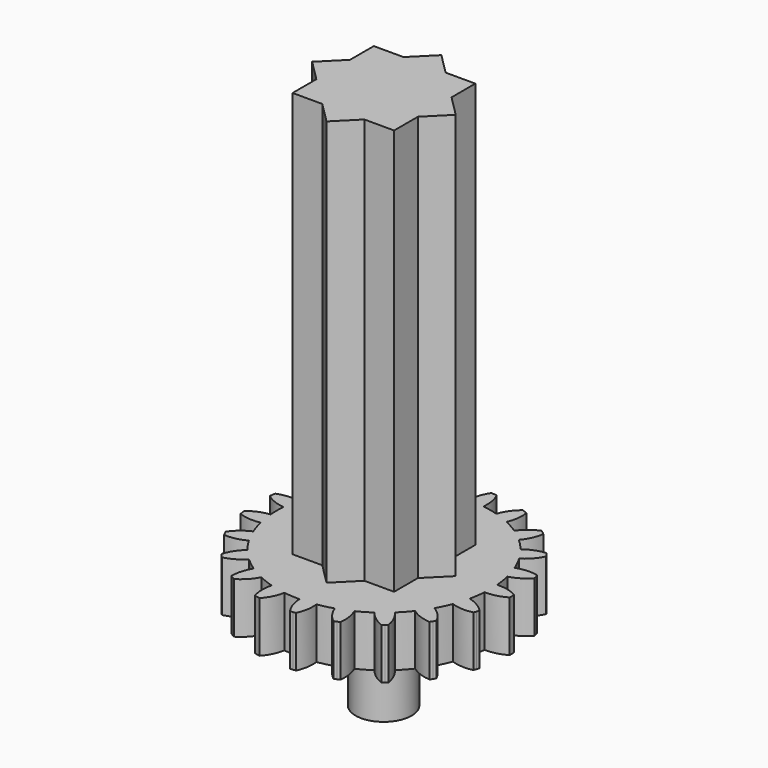
from build123d import *

# Parameters (mm, degrees)
F1_DEPTH = 2.5
F3_DEPTH = 20
F4_R     = 1.375
F5_DEPTH = 4.25


with BuildPart() as f1:
    # F0 (on Top) → F1 (new body)
    with BuildSketch(Plane.XY):
        with BuildLine():
            ThreePointArc((62.8365565144, 3.362066225), (62.8481611829, 3.2932454376), (62.8611358083, 3.2246697262))
            ThreePointArc((62.8611358083, 3.2246697262), (63.3821632788, 3.1048254944), (63.9158244158, 3.1370443667))
            ThreePointArc((63.9158244158, 3.1370443667), (63.8402378714, 3.521033735), (63.7934657065, 3.9095868526))
            ThreePointArc((63.7934657065, 3.9095868526), (63.2759676256, 3.7753184605), (62.817474959, 3.50033348))
            ThreePointArc((62.817474959, 3.50033348), (62.8263264172, 3.431104723), (62.8365565144, 3.362066225))
        make_face()
        with BuildLine():
            ThreePointArc((63.7934657065, 3.9095868526), (63.8402378714, 3.521033735), (63.9158244158, 3.1370443667))
            ThreePointArc((63.9158244158, 3.1370443667), (64.0205596733, 2.7573683946), (64.1534635918, 2.3866125903))
            ThreePointArc((64.1534635918, 2.3866125903), (64.3126858426, 2.0291081351), (64.4980971421, 1.6844578621))
            ThreePointArc((64.4980971421, 1.6844578621), (64.7100907634, 1.3525210873), (64.9463723255, 1.0374110408))
            ThreePointArc((64.9463723255, 1.0374110408), (65.2038970665, 0.7427210878), (65.4826585135, 0.4680335994))
            ThreePointArc((65.4826585135, 0.4680335994), (65.7830739349, 0.2133300609), (66.1017384869, -0.0181353173))
            ThreePointArc((66.1017384869, -0.0181353173), (66.4346835147, -0.2238262726), (66.7820259313, -0.4041437877))
            ThreePointArc((66.7820259313, -0.4041437877), (67.1441699244, -0.5589825627), (67.5169027223, -0.686236558))
            ThreePointArc((67.5169027223, -0.686236558), (67.8956844101, -0.7846519716), (68.2807448984, -0.8545775108))
            ThreePointArc((68.2807448984, -0.8545775108), (68.67243938, -0.8957934176), (69.0661214791, -0.907528954))
            ThreePointArc((69.0661214791, -0.907528954), (69.4570834117, -0.8899241845), (69.8456476574, -0.8432445568))
            ThreePointArc((69.8456476574, -0.8432445568), (70.232088854, -0.7671753812), (70.6117398722, -0.662349705))
            ThreePointArc((70.6117398722, -0.662349705), (70.9801433661, -0.5302890133), (71.3376857308, -0.3711519085))
            ThreePointArc((71.3376857308, -0.3711519085), (71.6845366462, -0.1845567307), (72.0164229243, 0.027515937))
            ThreePointArc((72.0164229243, 0.027515937), (72.3295337125, 0.2622983788), (72.624284988, 0.5197529305))
            ThreePointArc((72.624284988, 0.5197529305), (72.9007263963, 0.8002943103), (73.1553583821, 1.1007703821))
            ThreePointArc((73.1553583821, 1.1007703821), (73.3853551969, 1.4174131237), (73.591125439, 1.7503091558))
            ThreePointArc((73.591125439, 1.7503091558), (73.7725943078, 2.0998694047), (73.927346832, 2.4620502631))
            ThreePointArc((73.927346832, 2.4620502631), (74.0537934471, 2.8324182074), (74.1522990667, 3.2111764463))
            ThreePointArc((74.1522990667, 3.2111764463), (74.2226710907, 3.5986956022), (74.2637937123, 3.9903998886))
            ThreePointArc((74.2637937123, 3.9903998886), (74.2726488423, 4.1662582611), (74.2756016595, 4.3423146764))
            ThreePointArc((74.2756016595, 4.3423146764), (74.2711851699, 4.5576136217), (74.2579431316, 4.7725503326))
            ThreePointArc((74.2579431316, 4.7725503326), (74.2109654476, 5.1635956179), (74.1348042413, 5.5500186873))
            ThreePointArc((74.1348042413, 5.5500186873), (74.0306436457, 5.9272609583), (73.8986706949, 6.2956958927))
            ThreePointArc((73.8986706949, 6.2956958927), (73.7385174764, 6.6555212177), (73.5518396996, 7.0023276848))
            ThreePointArc((73.5518396996, 7.0023276848), (73.3411125556, 7.3321082656), (73.1064046894, 7.6452749595))
            ThreePointArc((73.1064046894, 7.6452749595), (72.8473062526, 7.9419082651), (72.5666990449, 8.2182828532))
            ThreePointArc((72.5666990449, 8.2182828532), (72.2681293841, 8.471299292), (71.9515414263, 8.7013715103))
            ThreePointArc((71.9515414263, 8.7013715103), (71.6165198043, 8.9084556255), (71.2669163477, 9.0898412397))
            ThreePointArc((71.2669163477, 9.0898412397), (70.9070333946, 9.2436119155), (70.5366955747, 9.370146732))
            ThreePointArc((70.5366955747, 9.370146732), (70.1555189089, 9.4692813244), (69.7679830045, 9.5395610568))
            ThreePointArc((69.7679830045, 9.5395610568), (69.378763939, 9.5804227704), (68.9875823974, 9.5921770113))
            ThreePointArc((68.9875823974, 9.5921770113), (68.5941199073, 9.5745535373), (68.203085821, 9.5274827253))
            ThreePointArc((68.203085821, 9.5274827253), (67.819114465, 9.4518047341), (67.4418473984, 9.3477339836))
            ThreePointArc((67.4418473984, 9.3477339836), (67.0710599529, 9.2149183661), (66.7112727793, 9.054679458))
            ThreePointArc((66.7112727793, 9.054679458), (66.3666666728, 8.8691860835), (66.0368359156, 8.6585374844))
            ThreePointArc((66.0368359156, 8.6585374844), (65.7216696065, 8.4223309741), (65.4250980149, 8.1631618999))
            ThreePointArc((65.4250980149, 8.1631618999), (65.1504769227, 7.8843350426), (64.8973893852, 7.5858256474))
            ThreePointArc((64.8973893852, 7.5858256474), (64.6658481221, 7.2672162291), (64.4588437998, 6.9321452985))
            ThreePointArc((64.4588437998, 6.9321452985), (64.2786090112, 6.5847599482), (64.1247526318, 6.2249136266))
            ThreePointArc((64.1247526318, 6.2249136266), (63.9974098719, 5.8522111454), (63.8983660615, 5.471010881))
            ThreePointArc((63.8983660615, 5.471010881), (63.8285322283, 5.0859337506), (63.7875778214, 4.6967244275))
            ThreePointArc((63.7875778214, 4.6967244275), (63.7757485279, 4.3030451344), (63.7934657065, 3.9095868526))
        make_face()
        with BuildLine():
            ThreePointArc((64.4980971421, 1.6844578621), (64.3126858426, 2.0291081351), (64.1534635918, 2.3866125903))
            ThreePointArc((64.1534635918, 2.3866125903), (63.698532802, 2.105774129), (63.341462924, 1.7078628737))
            ThreePointArc((63.341462924, 1.7078628737), (63.3703266711, 1.6443187693), (63.4004517284, 1.5813628321))
            ThreePointArc((63.4004517284, 1.5813628321), (63.4318261172, 1.5190200954), (63.4644373622, 1.4573153484))
            ThreePointArc((63.4644373622, 1.4573153484), (63.9976417514, 1.4963710024), (64.4980971421, 1.6844578621))
        make_face()
        with BuildLine():
            ThreePointArc((62.8055740977, 5.0913317626), (63.2681290721, 4.8232363308), (63.7875778214, 4.6967244275))
            ThreePointArc((63.7875778214, 4.6967244275), (63.8285322283, 5.0859337506), (63.8983660615, 5.471010881))
            ThreePointArc((63.8983660615, 5.471010881), (63.364282665, 5.495242894), (62.8451062952, 5.3676178105))
            ThreePointArc((62.8451062952, 5.3676178105), (62.8331589736, 5.2988556799), (62.8225851218, 5.2298689945))
            ThreePointArc((62.8225851218, 5.2298689945), (62.8133889443, 5.1606851855), (62.8055740977, 5.0913317626))
        make_face()
        with BuildLine():
            ThreePointArc((65.4826585135, 0.4680335994), (65.2038970665, 0.7427210878), (64.9463723255, 1.0374110408))
            ThreePointArc((64.9463723255, 1.0374110408), (64.5944314239, 0.6349562401), (64.3705115601, 0.1494748713))
            ThreePointArc((64.3705115601, 0.1494748713), (64.4168229255, 0.0972615919), (64.4641661992, 0.0459821269))
            ThreePointArc((64.4641661992, 0.0459821269), (64.5125225562, -0.0043431335), (64.5618727686, -0.0536941786))
            ThreePointArc((64.5618727686, -0.0536941786), (65.0598765268, 0.1407910951), (65.4826585135, 0.4680335994))
        make_face()
        with BuildLine():
            ThreePointArc((63.3026891321, 6.8914403438), (63.665671571, 6.4989151677), (64.1247526318, 6.2249136266))
            ThreePointArc((64.1247526318, 6.2249136266), (64.2786090112, 6.5847599482), (64.4588437998, 6.9321452985))
            ThreePointArc((64.4588437998, 6.9321452985), (63.9556307413, 7.1127245957), (63.4219017672, 7.1437994581))
            ThreePointArc((63.4219017672, 7.1437994581), (63.3902172378, 7.0816137708), (63.3597789701, 7.0188086679))
            ThreePointArc((63.3597789701, 7.0188086679), (63.3305990672, 6.9554091223), (63.3026891321, 6.8914403438))
        make_face()
        with BuildLine():
            ThreePointArc((66.7820259313, -0.4041437877), (66.4346835147, -0.2238262726), (66.1017384869, -0.0181353173))
            ThreePointArc((66.1017384869, -0.0181353173), (65.884058967, -0.5064465823), (65.8131853801, -1.0363609145))
            ThreePointArc((65.8131853801, -1.0363609145), (65.8728293957, -1.0726039898), (65.9331842283, -1.1076505772))
            ThreePointArc((65.9331842283, -1.1076505772), (65.994225879, -1.1414867411), (66.0559300757, -1.1740990272))
            ThreePointArc((66.0559300757, -1.1740990272), (66.4744833834, -0.8414650039), (66.7820259313, -0.4041437877))
        make_face()
        with BuildLine():
            ThreePointArc((64.3083100591, 8.4650479229), (64.53946738, 7.9829705869), (64.8973893852, 7.5858256474))
            ThreePointArc((64.8973893852, 7.5858256474), (65.1504769227, 7.8843350426), (65.4250980149, 8.1631618999))
            ThreePointArc((65.4250980149, 8.1631618999), (64.9974679829, 8.4840432185), (64.4966105661, 8.6710568887))
            ThreePointArc((64.4966105661, 8.6710568887), (64.4480041383, 8.6209731161), (64.4004060283, 8.5699301045))
            ThreePointArc((64.4004060283, 8.5699301045), (64.3538351626, 8.5179481502), (64.3083100591, 8.4650479229))
        make_face()
        with BuildLine():
            ThreePointArc((68.2807448984, -0.8545775108), (67.8956844101, -0.7846519716), (67.5169027223, -0.686236558))
            ThreePointArc((67.5169027223, -0.686236558), (67.4528263648, -1.2170156884), (67.541296484, -1.7442777702))
            ThreePointArc((67.541296484, -1.7442777702), (67.6089735173, -1.7613302851), (67.676977117, -1.7770299517))
            ThreePointArc((67.676977117, -1.7770299517), (67.7452802427, -1.7913705274), (67.8138557352, -1.8043463098))
            ThreePointArc((67.8138557352, -1.8043463098), (68.1157682943, -1.3631195297), (68.2807448984, -0.8545775108))
        make_face()
        with BuildLine():
            ThreePointArc((65.7330830463, 9.6723325607), (65.8118759068, 9.1435377517), (66.0368359156, 8.6585374844))
            ThreePointArc((66.0368359156, 8.6585374844), (66.3666666728, 8.8691860835), (66.7112727793, 9.054679458))
            ThreePointArc((66.7112727793, 9.054679458), (66.3972225788, 9.4873510845), (65.9737400987, 9.8136865774))
            ThreePointArc((65.9737400987, 9.8136865774), (65.912530667, 9.7801548823), (65.8520020158, 9.7454093578))
            ThreePointArc((65.8520020158, 9.7454093578), (65.7921782129, 9.7094638195), (65.7330830463, 9.6723325607))
        make_face()
        with BuildLine():
            ThreePointArc((69.8456476574, -0.8432445568), (69.4570834117, -0.8899241845), (69.0661214791, -0.907528954))
            ThreePointArc((69.0661214791, -0.907528954), (69.1613417496, -1.4336138949), (69.4012946164, -1.9113741763))
            ThreePointArc((69.4012946164, -1.9113741763), (69.470991266, -1.9077209401), (69.5406012146, -1.9026787017))
            ThreePointArc((69.5406012146, -1.9026787017), (69.610096783, -1.8962494661), (69.6794503378, -1.8884357897))
            ThreePointArc((69.6794503378, -1.8884357897), (69.8378958925, -1.3778211884), (69.8456476574, -0.8432445568))
        make_face()
        with BuildLine():
            ThreePointArc((67.4504107613, 10.4060217191), (67.3698380699, 9.8774951764), (67.4418473984, 9.3477339836))
            ThreePointArc((67.4418473984, 9.3477339836), (67.819114465, 9.4518047341), (68.203085821, 9.5274827253))
            ThreePointArc((68.203085821, 9.5274827253), (68.0305201906, 10.0334998871), (67.7220409239, 10.470160862))
            ThreePointArc((67.7220409239, 10.470160862), (67.6536672149, 10.4561606827), (67.5855862586, 10.4407999375))
            ThreePointArc((67.5855862586, 10.4407999375), (67.5178251261, 10.4240847341), (67.4504107613, 10.4060217191))
        make_face()
        with BuildLine():
            ThreePointArc((71.3376857308, -0.3711519085), (70.9801433661, -0.5302890133), (70.6117398722, -0.662349705))
            ThreePointArc((70.6117398722, -0.662349705), (70.8577960316, -1.1369955005), (71.227910781, -1.5228028841))
            ThreePointArc((71.227910781, -1.5228028841), (71.2934341937, -1.4987685028), (71.3584653417, -1.4734323843))
            ThreePointArc((71.3584653417, -1.4734323843), (71.4229783665, -1.4468046032), (71.4869476159, -1.4188957474))
            ThreePointArc((71.4869476159, -1.4188957474), (71.4878475833, -0.8842636731), (71.3376857308, -0.3711519085))
        make_face()
        with BuildLine():
            ThreePointArc((69.3077011002, 10.6009238966), (69.0749220941, 10.119627523), (68.9875823974, 9.5921770113))
            ThreePointArc((68.9875823974, 9.5921770113), (69.378763939, 9.5804227704), (69.7679830045, 9.5395610568))
            ThreePointArc((69.7679830045, 9.5395610568), (69.7522351576, 10.0739619084), (69.5861688411, 10.5821491213))
            ThreePointArc((69.5861688411, 10.5821491213), (69.5167061588, 10.5889244353), (69.4471221893, 10.594313339))
            ThreePointArc((69.4471221893, 10.594313339), (69.3774446011, 10.5983136897), (69.3077011002, 10.6009238966))
        make_face()
        with BuildLine():
            ThreePointArc((72.624284988, 0.5197529305), (72.3295337125, 0.2622983788), (72.0164229243, 0.027515937))
            ThreePointArc((72.0164229243, 0.027515937), (72.3914518033, -0.3535163514), (72.8588421154, -0.6130901579))
            ThreePointArc((72.8588421154, -0.6130901579), (72.9143702485, -0.5708101918), (72.969044293, -0.5274314187))
            ThreePointArc((72.969044293, -0.5274314187), (73.0228425089, -0.4829710873), (73.0757435044, -0.4374468763))
            ThreePointArc((73.0757435044, -0.4374468763), (72.9190179184, 0.073698265), (72.624284988, 0.5197529305))
        make_face()
        with BuildLine():
            ThreePointArc((71.1399256658, 10.2397211794), (70.7756237813, 9.8484202698), (70.5366955747, 9.370146732))
            ThreePointArc((70.5366955747, 9.370146732), (70.9070333946, 9.2436119155), (71.2669163477, 9.0898412397))
            ThreePointArc((71.2669163477, 9.0898412397), (71.4093855496, 9.6051419202), (71.4004879041, 10.1397007072))
            ThreePointArc((71.4004879041, 10.1397007072), (71.3361083128, 10.166649498), (71.2712041711, 10.1923092229))
            ThreePointArc((71.2712041711, 10.1923092229), (71.2058012867, 10.2166696789), (71.1399256658, 10.2397211794))
        make_face()
        with BuildLine():
            ThreePointArc((73.591125439, 1.7503091558), (73.3853551969, 1.4174131237), (73.1553583821, 1.1007703821))
            ThreePointArc((73.1553583821, 1.1007703821), (73.6260370189, 0.8472079918), (74.1491732134, 0.7369320342))
            ThreePointArc((74.1491732134, 0.7369320342), (74.1897721486, 0.7937008246), (74.2292310609, 0.8512678581))
            ThreePointArc((74.2292310609, 0.8512678581), (74.2675342602, 0.9096102442), (74.3046665162, 0.9687047843))
            ThreePointArc((74.3046665162, 0.9687047843), (74.004241133, 1.4109455038), (73.591125439, 1.7503091558))
        make_face()
        with BuildLine():
            ThreePointArc((72.7842832649, 9.3545080141), (72.3208283231, 9.0879713715), (71.9515414263, 8.7013715103))
            ThreePointArc((71.9515414263, 8.7013715103), (72.2681293841, 8.471299292), (72.5666990449, 8.2182828532))
            ThreePointArc((72.5666990449, 8.2182828532), (72.8547262819, 8.6686966358), (73.0037879023, 9.1821291028))
            ThreePointArc((73.0037879023, 9.1821291028), (72.9502118112, 9.2268568522), (72.895754515, 9.2705074191))
            ThreePointArc((72.895754515, 9.2705074191), (72.8404376677, 9.313063447), (72.7842832649, 9.3545080141))
        make_face()
        with BuildLine():
            ThreePointArc((74.1522990667, 3.2111764463), (74.0537934471, 2.8324182074), (73.927346832, 2.4620502631))
            ThreePointArc((73.927346832, 2.4620502631), (74.4518533641, 2.358487902), (74.9842524945, 2.407308296))
            ThreePointArc((74.9842524945, 2.407308296), (75.0063148381, 2.4735217546), (75.0270525206, 2.5401619649))
            ThreePointArc((75.0270525206, 2.5401619649), (75.0464572961, 2.6072024287), (75.0645214487, 2.6746164888))
            ThreePointArc((75.0645214487, 2.6746164888), (74.6470903819, 3.0086577577), (74.1522990667, 3.2111764463))
        make_face()
        with BuildLine():
            ThreePointArc((74.0946655087, 8.0239394751), (73.573237515, 7.9058500499), (73.1064046894, 7.6452749595))
            ThreePointArc((73.1064046894, 7.6452749595), (73.3411125556, 7.3321082656), (73.5518396996, 7.0023276848))
            ThreePointArc((73.5518396996, 7.0023276848), (73.9598324876, 7.3478333284), (74.2536085949, 7.7945187475))
            ThreePointArc((74.2536085949, 7.7945187475), (74.2155964747, 7.8530511985), (74.1764247939, 7.9108140631))
            ThreePointArc((74.1764247939, 7.9108140631), (74.1361091283, 7.967784373), (74.0946655087, 8.0239394751))
        make_face()
        with BuildLine():
            ThreePointArc((74.2756016595, 4.3423146764), (74.2726488423, 4.1662582611), (74.2637937123, 3.9903998886))
            ThreePointArc((74.2637937123, 3.9903998886), (74.7955234327, 4.046039527), (75.2898794997, 4.2496183664))
            ThreePointArc((75.2898794997, 4.2496183664), (75.2914449158, 4.3193931367), (75.2916187345, 4.3891852487))
            ThreePointArc((75.2916187345, 4.3891852487), (75.2904008866, 4.4589669508), (75.2877918565, 4.5287104957))
            ThreePointArc((75.2877918565, 4.5287104957), (74.7904456883, 4.7248712815), (74.2579431316, 4.7725503326))
            ThreePointArc((74.2579431316, 4.7725503326), (74.2711851699, 4.5576136217), (74.2756016595, 4.3423146764))
        make_face()
        with BuildLine():
            ThreePointArc((74.9546391842, 6.3662424162), (74.4215693042, 6.407092972), (73.8986706949, 6.2956958927))
            ThreePointArc((73.8986706949, 6.2956958927), (74.0306436457, 5.9272609583), (74.1348042413, 5.5500186873))
            ThreePointArc((74.1348042413, 5.5500186873), (74.6265106308, 5.7599164992), (75.0388979285, 6.1001649107))
            ThreePointArc((75.0388979285, 6.1001649107), (75.0198273229, 6.1673011983), (74.9994218332, 6.2340438765))
            ThreePointArc((74.9994218332, 6.2340438765), (74.9776895732, 6.3003664064), (74.9546391842, 6.3662424162))
        make_face()
    extrude(amount=F1_DEPTH)

    # F2 (on face) → F3 (join)
    with BuildSketch(Plane.XY.offset(2.5)):
        Polygon((70.0611355654, 1.8423146764), (71.5256016595, 1.8423146764), (71.5256016595, 3.3067807705), align=None)
        Polygon((69.0256016595, 0.8067807705), (70.0611355654, 1.8423146764), (67.9900677536, 1.8423146764), align=None)
        Polygon((67.9900677536, 1.8423146764), (70.0611355654, 1.8423146764), (71.5256016595, 3.3067807705), (71.5256016595, 5.3778485824), (70.0611355654, 6.8423146764), (67.9900677536, 6.8423146764), (66.5256016595, 5.3778485824), (66.5256016595, 3.3067807705), align=None)
        Polygon((71.5256016595, 5.3778485824), (71.5256016595, 3.3067807705), (72.5611355654, 4.3423146764), align=None)
        Polygon((66.5256016595, 1.8423146764), (67.9900677536, 1.8423146764), (66.5256016595, 3.3067807705), align=None)
        Polygon((70.0611355654, 6.8423146764), (71.5256016595, 5.3778485824), (71.5256016595, 6.8423146764), align=None)
        Polygon((65.4900677536, 4.3423146764), (66.5256016595, 3.3067807705), (66.5256016595, 5.3778485824), align=None)
        Polygon((67.9900677536, 6.8423146764), (70.0611355654, 6.8423146764), (69.0256016595, 7.8778485824), align=None)
        Polygon((66.5256016595, 6.8423146764), (66.5256016595, 5.3778485824), (67.9900677536, 6.8423146764), align=None)
    extrude(amount=F3_DEPTH)

    # F4 (on face) → F5 (join)
    with BuildSketch(Plane(origin=(0, 0, 0), x_dir=(1, 0, 0), z_dir=(0, 0, -1))):
        with Locations((69.0220007616, -4.3259757068)):
            Circle(F4_R)
    extrude(amount=F5_DEPTH)


solid = f1.part
